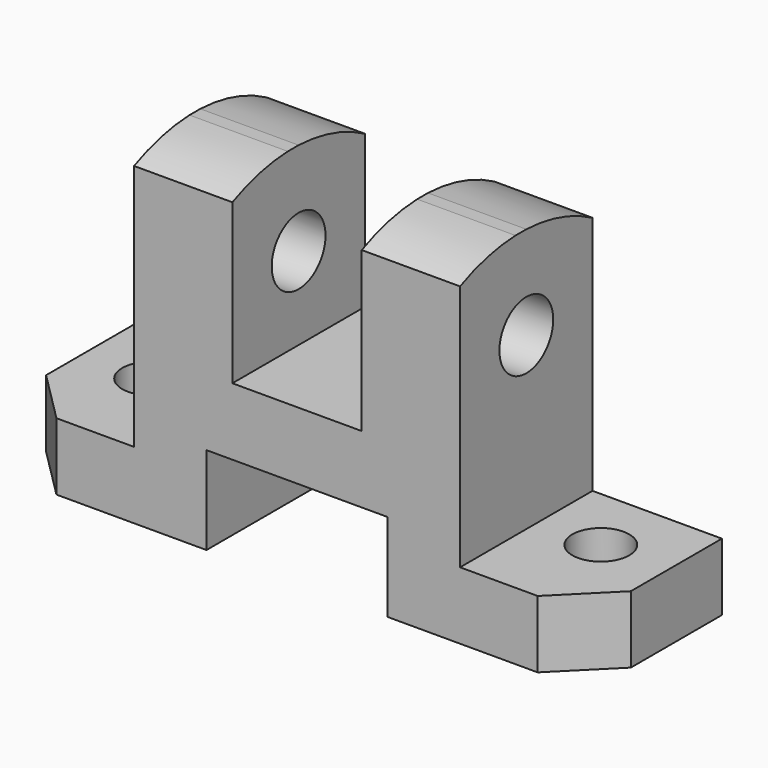
from build123d import *

# Parameters (mm, degrees)
F1_DEPTH = 32
F2_R     = 6.5
F3_DEPTH = 88.001
F5_DEPTH = 88.001
F6_R     = 5.5
F7_DEPTH = 13.001
F8_DEPTH = 13.001


with BuildPart() as f1:
    # F0 (on Front) → F1 (new body)
    with BuildSketch(Plane.XZ):
        Polygon((0, 13), (0, 0), (39, 0), (39, 17), (74, 17), (74, 0), (113, 0), (113, 13), (88, 13), (88, 64), (69, 64), (69, 30), (44, 30), (44, 64), (25, 64), (25, 13), align=None)
    extrude(amount=-F1_DEPTH)

    # F2 (on face) → F3 (cut, through all)
    with BuildSketch(Plane.YZ.offset(88)):
        with Locations((16, 46)):
            Circle(F2_R)
    extrude(amount=-F3_DEPTH, mode=Mode.SUBTRACT)

    # F4 (on face) → F5 (cut, through all)
    with BuildSketch(Plane.YZ.offset(88)):
        with BuildLine():
            ThreePointArc((0, 60.790067), (6.535448, 63.059972), (13.389709, 64))
            Line((13.389709, 64), (0, 64))
            Line((0, 64), (0, 60.790067))
        make_face()
        with BuildLine():
            ThreePointArc((16, 64), (24.274438, 62.687848), (32, 59.446899))
            Line((32, 59.446899), (32, 64))
            Line((32, 64), (16, 64))
        make_face()
    extrude(amount=-F5_DEPTH, mode=Mode.SUBTRACT)

    # F6 (on face) → F7 (cut, through all)
    with BuildSketch(Plane.XY.offset(13)):
        Polygon((0, 10), (0, 0), (10, 0), align=None)
        Polygon((113, 10), (103, 0), (113, 0), align=None)
        with Locations((100, 19)):
            Circle(F6_R)
    extrude(amount=-F7_DEPTH, mode=Mode.SUBTRACT)

    # F6 (on face) → F8 (cut, through all)
    with BuildSketch(Plane.XY.offset(13)):
        with Locations((13, 19)):
            Circle(F6_R)
    extrude(amount=-F8_DEPTH, mode=Mode.SUBTRACT)


solid = f1.part
